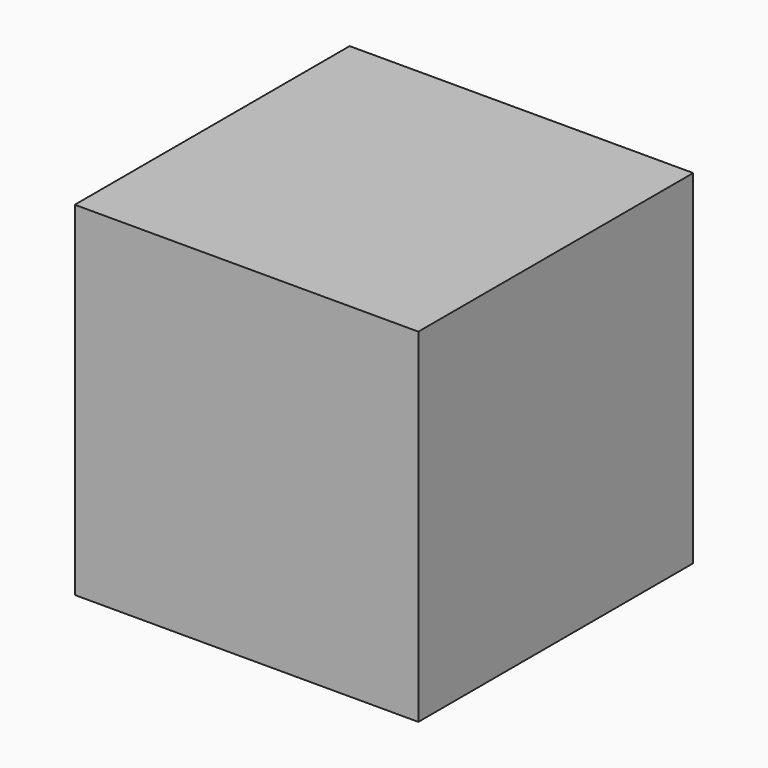
from build123d import *

# Parameters (mm, degrees)
F0_W     = 100
F0_H     = 100
F1_DEPTH = 50
F2_R     = 12.5


with BuildPart() as f1:
    # F0 (on Front) → F1 (new body, symmetric)
    with BuildSketch(Plane.XZ):
        Rectangle(F0_W, F0_H)
    extrude(amount=F1_DEPTH, both=True)


with BuildPart() as f3:
    # F2 (on Right) → F3 (revolve)
    with BuildSketch(Plane.YZ):
        with Locations((0, 30)):
            Circle(F2_R)
    revolve(axis=Axis((0, 3.9544021711, 0), (0, 1, 0)))


solid = Compound([f1.part, f3.part])
